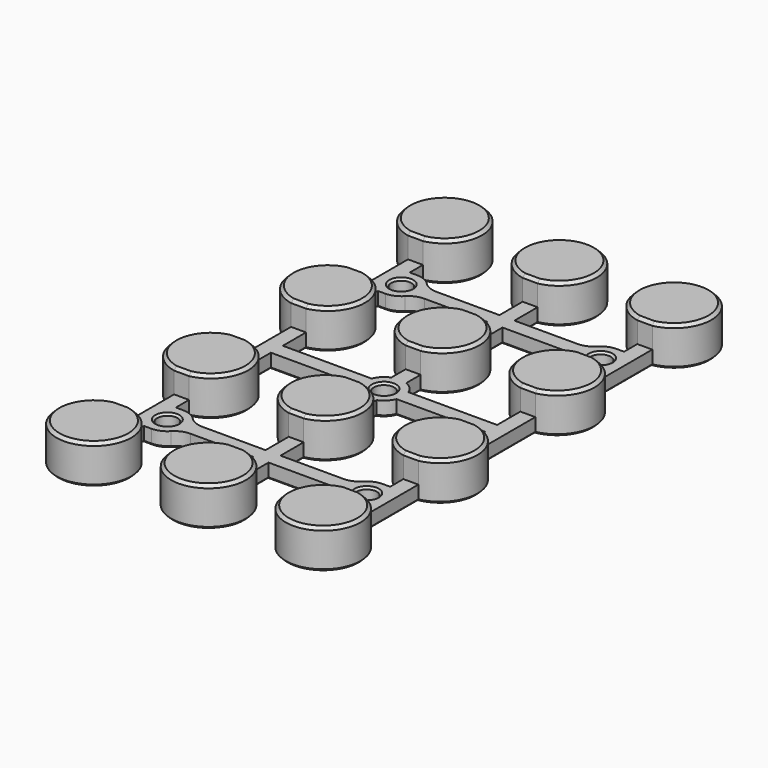
from build123d import *

# Parameters (mm, degrees)
SKETCH012_R          = 2.025
PAD006_DEPTH         = 7.8
POCKET003_DEPTH      = 30.501
POCKET003_DEPTH_BACK = 30.501
CHAMFER_SIZE         = 0.6
CHAMFER001_SIZE      = 0.6
CHAMFER004_SIZE      = 0.4


with BuildPart() as part:
    # Sketch012 → Pad006 (new body)
    with BuildSketch(Plane.XY):
        with BuildLine():
            ThreePointArc((-21.5, 36.651531), (-23, 51.5), (-24.5, 36.651531))
            Line((-24.5, 36.651531), (-24.5, 22.015136))
            ThreePointArc((-24.5, 22.015136), (-30.5, 14.666667), (-24.5, 7.318197))
            Line((-24.5, 7.318197), (-24.5, -7.318197))
            ThreePointArc((-24.5, -7.318197), (-30.5, -14.666667), (-24.5, -22.015136))
            Line((-24.5, -22.015136), (-24.5, -36.651531))
            ThreePointArc((-24.5, -36.651531), (-23, -51.5), (-21.5, -36.651531))
            Line((-21.5, -33.333), (-21.5, -36.651531))
            Line((-19.999999, -33.333), (-21.5, -33.333))
            ThreePointArc((-19.999999, -33.333), (-18.418861, -33.007234), (-17.095262, -32.083))
            ThreePointArc((-14.190525, -30.833), (-15.771664, -31.158765), (-17.095262, -32.083))
            Line((-1.5, -30.833), (-14.190525, -30.833))
            Line((-1.5, -36.651531), (-1.5, -30.833))
            ThreePointArc((-1.5, -36.651531), (0, -51.5), (1.5, -36.651531))
            Line((1.5, -30.833), (1.5, -36.651531))
            Line((14.190525, -30.833), (1.5, -30.833))
            ThreePointArc((17.095262, -32.083), (15.771664, -31.158765), (14.190525, -30.833))
            ThreePointArc((17.095262, -32.083), (18.418861, -33.007235), (20, -33.333))
            Line((21.5, -33.333), (20, -33.333))
            Line((21.5, -33.333), (21.5, -36.651531))
            ThreePointArc((21.5, -36.651531), (23, -51.5), (24.5, -36.651531))
            Line((24.5, -22.015136), (24.5, -36.651531))
            ThreePointArc((24.5, -22.015136), (30.5, -14.666667), (24.5, -7.318197))
            Line((24.5, 7.318197), (24.5, -7.318197))
            ThreePointArc((24.5, 7.318197), (30.5, 14.666667), (24.5, 22.015136))
            Line((24.5, 36.651531), (24.5, 22.015136))
            ThreePointArc((24.5, 36.651531), (23, 51.5), (21.5, 36.651531))
            Line((21.5, 36.651531), (21.5, 33.333))
            Line((21.5, 33.333), (20, 33.333))
            ThreePointArc((20, 33.333), (18.418861, 33.007235), (17.095262, 32.083))
            ThreePointArc((14.190525, 30.833), (15.771664, 31.158765), (17.095262, 32.083))
            Line((14.190525, 30.833), (1.5, 30.833))
            Line((1.5, 36.651531), (1.5, 30.833))
            ThreePointArc((1.5, 36.651531), (0, 51.5), (-1.5, 36.651531))
            Line((-1.5, 30.833), (-1.5, 36.651531))
            Line((-14.190525, 30.833), (-1.5, 30.833))
            ThreePointArc((-17.095262, 32.083), (-15.771664, 31.158765), (-14.190525, 30.833))
            ThreePointArc((-17.095262, 32.083), (-18.418861, 33.007234), (-19.999999, 33.333))
            Line((-19.999999, 33.333), (-21.5, 33.333))
            Line((-21.5, 36.651531), (-21.5, 33.333))
        make_face()
        with Locations((-20, 29.333)):
            Circle(SKETCH012_R, mode=Mode.SUBTRACT)
        with Locations((20, 29.333)):
            Circle(SKETCH012_R, mode=Mode.SUBTRACT)
        Circle(SKETCH012_R, mode=Mode.SUBTRACT)
        with Locations((20, -29.333)):
            Circle(SKETCH012_R, mode=Mode.SUBTRACT)
        with Locations((-20, -29.333)):
            Circle(SKETCH012_R, mode=Mode.SUBTRACT)
        with BuildLine():
            ThreePointArc((-1.5, -7.318197), (-7.5, -14.666667), (-1.5, -22.015136))
            Line((-1.5, -27.833), (-1.5, -22.015136))
            Line((-14.190525, -27.833), (-1.5, -27.833))
            ThreePointArc((-17.095262, -26.583), (-15.771664, -27.507235), (-14.190525, -27.833))
            ThreePointArc((-17.095262, -26.583), (-18.418861, -25.658765), (-20, -25.333))
            Line((-21.5, -25.333), (-20, -25.333))
            Line((-21.5, -22.015136), (-21.5, -25.333))
            ThreePointArc((-21.5, -22.015136), (-15.5, -14.666667), (-21.5, -7.318197))
            Line((-21.5, -1.5), (-21.5, -7.318197))
            Line((-21.5, -1.5), (-3.708099, -1.5))
            ThreePointArc((-3.708099, -1.5), (-2.828427, -2.828427), (-1.5, -3.708099))
            Line((-1.5, -7.318197), (-1.5, -3.708099))
        make_face(mode=Mode.SUBTRACT)
        with BuildLine():
            ThreePointArc((-1.5, 22.015136), (-7.5, 14.666667), (-1.5, 7.318197))
            Line((-1.5, 3.708099), (-1.5, 7.318197))
            ThreePointArc((-1.5, 3.708099), (-2.828427, 2.828427), (-3.708099, 1.5))
            Line((-21.5, 1.5), (-3.708099, 1.5))
            Line((-21.5, 7.318197), (-21.5, 1.5))
            ThreePointArc((-21.5, 7.318197), (-15.5, 14.666667), (-21.5, 22.015136))
            Line((-21.5, 25.333), (-21.5, 22.015136))
            Line((-19.999999, 25.333), (-21.5, 25.333))
            ThreePointArc((-19.999999, 25.333), (-18.418861, 25.658766), (-17.095262, 26.583))
            ThreePointArc((-14.190525, 27.833), (-15.771664, 27.507235), (-17.095262, 26.583))
            Line((-14.190525, 27.833), (-1.5, 27.833))
            Line((-1.5, 22.015136), (-1.5, 27.833))
        make_face(mode=Mode.SUBTRACT)
        with BuildLine():
            ThreePointArc((21.5, 22.015136), (15.5, 14.666667), (21.5, 7.318197))
            Line((21.5, 7.318197), (21.5, 1.5))
            Line((3.708099, 1.5), (21.5, 1.5))
            ThreePointArc((3.708099, 1.5), (2.828427, 2.828427), (1.5, 3.708099))
            Line((1.5, 7.318197), (1.5, 3.708099))
            ThreePointArc((1.5, 7.318197), (7.5, 14.666667), (1.5, 22.015136))
            Line((1.5, 27.833), (1.5, 22.015136))
            Line((1.5, 27.833), (14.190525, 27.833))
            ThreePointArc((17.095262, 26.583), (15.771664, 27.507235), (14.190525, 27.833))
            ThreePointArc((17.095262, 26.583), (18.418861, 25.658766), (19.999999, 25.333))
            Line((19.999999, 25.333), (21.5, 25.333))
            Line((21.5, 25.333), (21.5, 22.015136))
        make_face(mode=Mode.SUBTRACT)
        with BuildLine():
            ThreePointArc((21.5, -7.318197), (15.5, -14.666667), (21.5, -22.015136))
            Line((21.5, -22.015136), (21.5, -25.333))
            Line((20, -25.333), (21.5, -25.333))
            ThreePointArc((20, -25.333), (18.418861, -25.658765), (17.095262, -26.583))
            ThreePointArc((14.190525, -27.833), (15.771664, -27.507235), (17.095262, -26.583))
            Line((1.5, -27.833), (14.190525, -27.833))
            Line((1.5, -22.015136), (1.5, -27.833))
            ThreePointArc((1.5, -22.015136), (7.5, -14.666667), (1.5, -7.318197))
            Line((1.5, -3.708099), (1.5, -7.318197))
            ThreePointArc((1.5, -3.708099), (2.828427, -2.828427), (3.708099, -1.5))
            Line((3.708099, -1.5), (21.5, -1.5))
            Line((21.5, -1.5), (21.5, -7.318197))
        make_face(mode=Mode.SUBTRACT)
    extrude(amount=PAD006_DEPTH)

    # Sketch011 → Pocket003 (cut, two sides)
    with BuildSketch(Plane.YZ) as pocket003_sk:
        Polygon((-36.651531, 8.8), (36.651531, 8.8), (36.651531, 3), (22.015136, 3), (22.015136, 8.3), (7.318197, 8.3), (7.318197, 3), (-7.318197, 3), (-7.318197, 8.3), (-22.015136, 8.3), (-22.015136, 3), (-36.651531, 3), align=None)
    extrude(amount=-POCKET003_DEPTH, mode=Mode.SUBTRACT)
    extrude(pocket003_sk.sketch, amount=POCKET003_DEPTH_BACK, mode=Mode.SUBTRACT)

    # Chamfer
    chamfer_edges = [part.edges().sort_by_distance(p)[0] for p in [
        (23, 36.651531, 7.8),
        (0, 36.651531, 7.8),
        (-23, 36.651531, 7.8),
        (-23, 22.015136, 7.8),
        (0, 22.015136, 7.8),
        (23, 22.015136, 7.8),
        (23, 7.318197, 7.8),
        (0, -7.318197, 7.8),
        (-23, 7.318197, 7.8),
        (-23, -7.318197, 7.8),
        (0, 7.318197, 7.8),
        (23, -7.318197, 7.8),
        (23, -22.015136, 7.8),
        (0, -22.015136, 7.8),
        (-23, -22.015136, 7.8),
        (-23, -36.651531, 7.8),
        (0, -36.651531, 7.8),
        (23, -36.651531, 7.8),
    ]]
    chamfer(chamfer_edges, length=CHAMFER_SIZE)

    # Chamfer001
    chamfer001_edges = [part.edges().sort_by_distance(p)[0] for p in [
        (-23, -51.5, 7.8),
        (0, -51.5, 7.8),
        (23, -51.5, 7.8),
        (30.5, -14.666667, 7.8),
        (-7.5, -14.666667, 7.8),
        (-15.5, -14.666667, 7.8),
        (-30.5, -14.666667, 7.8),
        (-30.5, 14.666667, 7.8),
        (30.5, 14.666667, 7.8),
        (23, 51.5, 7.8),
        (0, 51.5, 7.8),
        (-23, 51.5, 7.8),
        (7.5, -14.666667, 7.8),
        (15.5, -14.666667, 7.8),
        (15.5, 14.666667, 7.8),
        (7.5, 14.666667, 7.8),
        (-7.5, 14.666667, 7.8),
        (-15.5, 14.666667, 7.8),
    ]]
    chamfer(chamfer001_edges, length=CHAMFER001_SIZE)

    # Chamfer004
    chamfer004_edges = [part.edges().sort_by_distance(p)[0] for p in [
        (-23, 51.5, 0),
        (-24.5, 29.333333, 0),
        (-30.5, 14.666667, 0),
        (-24.5, 0, 0),
        (-30.5, -14.666667, 0),
        (-24.5, -29.333333, 0),
        (-23, -51.5, 0),
        (-21.5, -34.992265, 0),
        (-20.749999, -33.333, 0),
        (-18.418861, -33.007234, 0),
        (-15.771664, -31.158765, 0),
        (-7.845262, -30.833, 0),
        (-1.5, -33.742265, 0),
        (0, -51.5, 0),
        (1.5, -33.742265, 0),
        (7.845263, -30.833, 0),
        (15.771664, -31.158765, 0),
        (18.418861, -33.007235, 0),
        (20.75, -33.333, 0),
        (21.5, -34.992265, 0),
        (23, -51.5, 0),
        (24.5, -29.333333, 0),
        (30.5, -14.666667, 0),
        (24.5, 0, 0),
        (30.5, 14.666667, 0),
        (24.5, 29.333333, 0),
        (23, 51.5, 0),
        (21.5, 34.992265, 0),
        (20.75, 33.333, 0),
        (18.418861, 33.007235, 0),
        (15.771664, 31.158765, 0),
        (7.845263, 30.833, 0),
        (1.5, 33.742265, 0),
        (0, 51.5, 0),
        (-1.5, 33.742265, 0),
        (-7.845262, 30.833, 0),
        (-15.771664, 31.158765, 0),
        (-18.418861, 33.007234, 0),
        (-20.749999, 33.333, 0),
        (-21.5, 34.992265, 0),
        (18.418861, 25.658766, 0),
        (20.749999, 25.333, 0),
        (21.5, 23.674068, 0),
        (15.5, 14.666667, 0),
        (21.5, 4.409099, 0),
        (12.60405, 1.5, 0),
        (2.828427, 2.828427, 0),
        (1.5, 5.513148, 0),
        (7.5, 14.666667, 0),
        (1.5, 24.924068, 0),
        (7.845262, 27.833, 0),
        (15.771664, 27.507235, 0),
        (-7.845262, 27.833, 0),
        (-1.5, 24.924068, 0),
        (-7.5, 14.666667, 0),
        (-1.5, 5.513148, 0),
        (-2.828427, 2.828427, 0),
        (-12.60405, 1.5, 0),
        (-21.5, 4.409099, 0),
        (-15.5, 14.666667, 0),
        (-21.5, 23.674068, 0),
        (-20.749999, 25.333, 0),
        (-18.418861, 25.658766, 0),
        (-15.771664, 27.507235, 0),
        (2.828427, -2.828427, 0),
        (12.60405, -1.5, 0),
        (21.5, -4.409099, 0),
        (15.5, -14.666667, 0),
        (21.5, -23.674068, 0),
        (20.75, -25.333, 0),
        (18.418861, -25.658765, 0),
        (15.771664, -27.507235, 0),
        (7.845262, -27.833, 0),
        (1.5, -24.924068, 0),
        (7.5, -14.666667, 0),
        (1.5, -5.513148, 0),
        (-12.60405, -1.5, 0),
        (-2.828427, -2.828427, 0),
        (-1.5, -5.513148, 0),
        (-7.5, -14.666667, 0),
        (-1.5, -24.924068, 0),
        (-7.845263, -27.833, 0),
        (-15.771664, -27.507235, 0),
        (-18.418861, -25.658765, 0),
        (-20.75, -25.333, 0),
        (-21.5, -23.674068, 0),
        (-15.5, -14.666667, 0),
        (-21.5, -4.409099, 0),
        (-2.025, 0, 0),
        (-22.025, -29.333, 0),
        (17.975, -29.333, 0),
        (17.975, 29.333, 0),
        (-22.025, 29.333, 0),
        (-22.025, -29.333, 3),
        (17.975, -29.333, 3),
        (-2.025, 0, 3),
        (17.975, 29.333, 3),
        (-22.025, 29.333, 3),
    ]]
    chamfer(chamfer004_edges, length=CHAMFER004_SIZE)


with BuildPart() as part_1:
    # Body011003 placement: moved
    add(part.part.moved(Location((-22.5, 0, 1))))


solid = part_1.part
